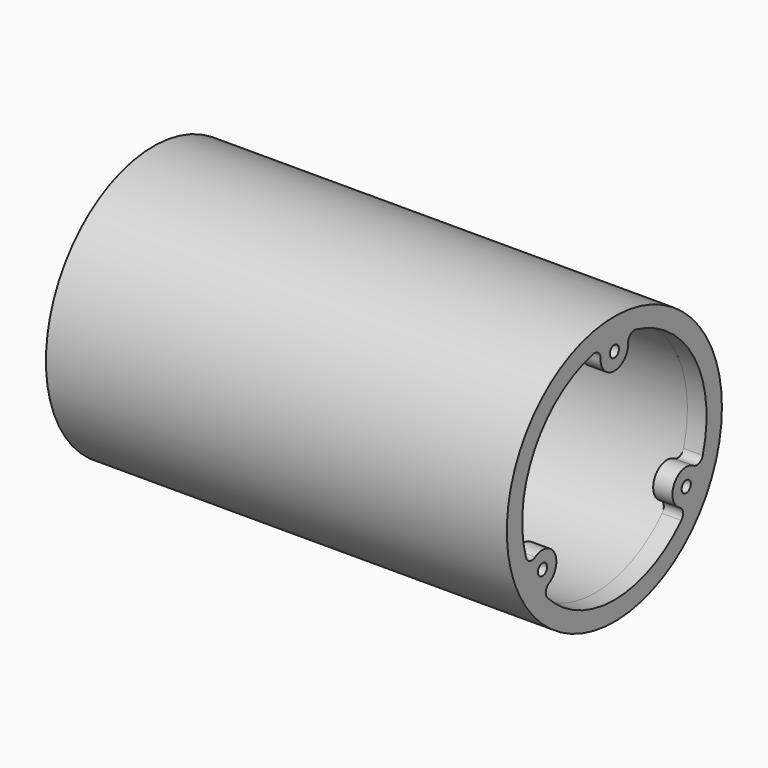
from build123d import *

# Parameters (mm, degrees)
F0_R      = 35
F1_DEPTH  = 120
F3_DEPTH  = 5
F4_R      = 30
F5_DEPTH  = 107
F7_D      = 3
F7_DEPTH  = 6
F7_TIP    = 0.9012909285
F9_D      = 4
F9_DEPTH  = 10
F9_TIP    = 1.2017212381
F10_R     = 9.5
F11_DEPTH = 25
F13_D     = 4
F13_DEPTH = 10
F13_TIP   = 1.2017212381
F15_D     = 3


with BuildPart() as f1:
    # F0 (on Right) → F1 (new body)
    with BuildSketch(Plane.YZ):
        Circle(F0_R)
    extrude(amount=F1_DEPTH)

    # F2 (on face) → F3 (cut)
    with BuildSketch(Plane.YZ.offset(120)):
        with BuildLine():
            ThreePointArc((-21.2757322377, -17.4762729101), (-22.3128291794, -18.9191356469), (-21.7921161636, -20.6180414414))
            ThreePointArc((-21.7921161636, -20.6180414414), (0, -29.9999993294), (21.7921161636, -20.6180414414))
            ThreePointArc((21.7921161636, -20.6180414414), (22.3128291794, -18.9191356469), (21.2757322377, -17.4762729101))
            ThreePointArc((21.2757322377, -17.4762729101), (19.4855715851, -11.25), (25.7727624225, -9.6871881469))
            ThreePointArc((25.7727624225, -9.6871881469), (27.5408666776, -9.8639090762), (28.7518057463, -8.5635054791))
            ThreePointArc((28.7518057463, -8.5635054791), (25.9807615328, 14.9999996647), (6.9596895828, 29.1815469206))
            ThreePointArc((6.9596895828, 29.1815469206), (5.2280374982, 28.7830447231), (4.4970301848, 27.163461057))
            ThreePointArc((4.4970301848, 27.163461057), (0, 22.5), (-4.4970301848, 27.163461057))
            ThreePointArc((-4.4970301848, 27.163461057), (-5.2280374982, 28.7830447231), (-6.9596895828, 29.1815469206))
            ThreePointArc((-6.9596895828, 29.1815469206), (-25.9807615328, 14.9999996647), (-28.7518057463, -8.5635054791))
            ThreePointArc((-28.7518057463, -8.5635054791), (-27.5408666776, -9.8639090762), (-25.7727624225, -9.6871881469))
            ThreePointArc((-25.7727624225, -9.6871881469), (-19.4855715851, -11.25), (-21.2757322377, -17.4762729101))
        make_face()
    extrude(amount=-F3_DEPTH, mode=Mode.SUBTRACT)

    # F4 (on face) → F5 (cut)
    with BuildSketch(Plane.YZ.offset(115)):
        Circle(F4_R)
    extrude(amount=-F5_DEPTH, mode=Mode.SUBTRACT)

    # F7
    with Locations(Plane.YZ.offset(120)):
        with Locations((-23.3826859022, -13.5), (0, 27), (23.3826859022, -13.5)):
            Hole(F7_D / 2, depth=F7_DEPTH)
            with Locations((0, 0, -(F7_DEPTH + F7_TIP / 2))):  # 118° drill point
                Cone(0, F7_D / 2, F7_TIP, mode=Mode.SUBTRACT)

    # F9
    with Locations(Plane(origin=(0, 0, 0), x_dir=(0, -1, 0), z_dir=(-1, 0, 0))):
        with Locations((-25, 0), (25, 0)):
            Hole(F9_D / 2, depth=F9_DEPTH)
            with Locations((0, 0, -(F9_DEPTH + F9_TIP / 2))):  # 118° drill point
                Cone(0, F9_D / 2, F9_TIP, mode=Mode.SUBTRACT)

    # F10 (on face) → F11 (cut)
    with BuildSketch(Plane(origin=(0, 0, 0), x_dir=(0, -1, 0), z_dir=(-1, 0, 0))):
        Circle(F10_R)
    extrude(amount=-F11_DEPTH, mode=Mode.SUBTRACT)

    # F13
    with Locations(Plane(origin=(0, 0, 0), x_dir=(0, -1, 0), z_dir=(-1, 0, 0))):
        with Locations((-10.5, 21), (10.5, 21)):
            Hole(F13_D / 2, depth=F13_DEPTH)
            with Locations((0, 0, -(F13_DEPTH + F13_TIP / 2))):  # 118° drill point
                Cone(0, F13_D / 2, F13_TIP, mode=Mode.SUBTRACT)

    # F15 (through all)
    with Locations(Plane(origin=(0, 0, 0), x_dir=(0, -1, 0), z_dir=(-1, 0, 0))):
        with Locations((-5.5, 13), (5.5, 13)):
            Hole(F15_D / 2)


solid = f1.part
